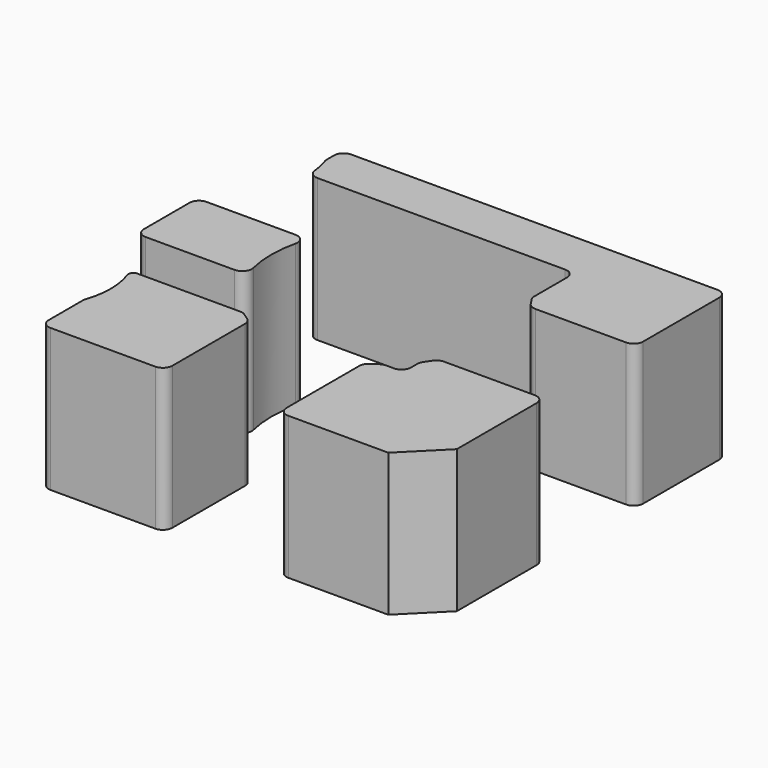
from build123d import *

# Parameters (mm, degrees)
CYLINDER069_R     = 8.5
CYLINDER069_DEPTH = 15
CYLINDER071_R     = 8.5
CYLINDER071_DEPTH = 15
CYLINDER070_R     = 12
CYLINDER070_DEPTH = 15
BOX015_W          = 12
BOX015_H          = 7
BOX015_DEPTH      = 15
BOX014_W          = 12
BOX014_H          = 3.5
BOX014_DEPTH      = 15
BOX012_W          = 15.5
BOX012_H          = 12
BOX012_DEPTH      = 15
CHAMFER012_SIZE   = 4
BOX011_W          = 13
BOX011_H          = 12
BOX011_DEPTH      = 15
BOX016_W          = 14.5
BOX016_H          = 8
BOX016_DEPTH      = 15
BOX013_W          = 40.5
BOX013_H          = 5
BOX013_DEPTH      = 15
FILLET003_R       = 0.5
FILLET004_R       = 1


with BuildPart() as cylinder069:
    # Cylinder069 → Cylinder069 (new body)
    with BuildSketch(Plane(origin=(11, -35.5, 0), x_dir=(1, 0, 0), z_dir=(0, 0, 1))):
        Circle(CYLINDER069_R)
    extrude(amount=CYLINDER069_DEPTH)


with BuildPart() as cylinder071:
    # Cylinder071 → Cylinder071 (new body)
    with BuildSketch(Plane(origin=(11, -9.5, 0), x_dir=(1, 0, 0), z_dir=(0, 0, 1))):
        Circle(CYLINDER071_R)
    extrude(amount=CYLINDER071_DEPTH)


with BuildPart() as fusion006002011004053036004001003011:
    # Cylinder070 → Cylinder070 (new body)
    with BuildSketch(Plane(origin=(38, -22.5, 0), x_dir=(1, 0, 0), z_dir=(0, 0, 1))):
        Circle(CYLINDER070_R)
    extrude(amount=CYLINDER070_DEPTH)

    # Fusion006002011004053036004001003011: union Cylinder069, Cylinder071
    add(cylinder069.part)
    add(cylinder071.part)


with BuildPart() as cube015:
    # Box015 → Box015 (new body)
    with BuildSketch(Plane(origin=(47.5, -16.5, 0), x_dir=(1, 0, 0), z_dir=(0, 0, 1))):
        with Locations((6, 3.5)):
            Rectangle(BOX015_W, BOX015_H)
    extrude(amount=BOX015_DEPTH)


with BuildPart() as cube014:
    # Box014 → Box014 (new body)
    with BuildSketch(Plane(origin=(47.5, -32, 0), x_dir=(1, 0, 0), z_dir=(0, 0, 1))):
        with Locations((6, 1.75)):
            Rectangle(BOX014_W, BOX014_H)
    extrude(amount=BOX014_DEPTH)


with BuildPart() as chamfer012:
    # Box012 → Box012 (new body)
    with BuildSketch(Plane(origin=(44, -44, 0), x_dir=(1, 0, 0), z_dir=(0, 0, 1))):
        with Locations((7.75, 6)):
            Rectangle(BOX012_W, BOX012_H)
    extrude(amount=BOX012_DEPTH)

    # Chamfer012
    chamfer012_edges = [chamfer012.edges().sort_by_distance(p)[0] for p in [
        (59.5, -44, 7.5),
    ]]
    chamfer(chamfer012_edges, length=CHAMFER012_SIZE)


with BuildPart() as cube011:
    # Box011 → Box011 (new body)
    with BuildSketch(Plane(origin=(19, -44, 0), x_dir=(1, 0, 0), z_dir=(0, 0, 1))):
        with Locations((6.5, 6)):
            Rectangle(BOX011_W, BOX011_H)
    extrude(amount=BOX011_DEPTH)


with BuildPart() as cube016:
    # Box016 → Box016 (new body)
    with BuildSketch(Plane(origin=(15, -26.5, 0), x_dir=(1, 0, 0), z_dir=(0, 0, 1))):
        with Locations((7.25, 4)):
            Rectangle(BOX016_W, BOX016_H)
    extrude(amount=BOX016_DEPTH)


with BuildPart() as wall:
    # Box013 → Box013 (new body)
    with BuildSketch(Plane(origin=(19, -9.5, 0), x_dir=(1, 0, 0), z_dir=(0, 0, 1))):
        with Locations((20.25, 2.5)):
            Rectangle(BOX013_W, BOX013_H)
    extrude(amount=BOX013_DEPTH)

    # Fusion006002011004053036004001003012: union Cube015, Cube014, Chamfer012, Cube011, Cube016
    add(cube015.part)
    add(cube014.part)
    add(chamfer012.part)
    add(cube011.part)
    add(cube016.part)

    # Cut002008008: cut Fusion006002011004053036004001003011
    add(fusion006002011004053036004001003011.part, mode=Mode.SUBTRACT)

    # Fillet003
    fillet003_edges = [wall.edges().sort_by_distance(p)[0] for p in [
        (19, -32, 7.5),
    ]]
    fillet(fillet003_edges, radius=FILLET003_R)

    # Fillet004
    fillet004_edges = [wall.edges().sort_by_distance(p)[0] for p in [
        (30.668561, -32, 7.5),
        (32, -32.892305, 7.5),
        (19, -44, 7.5),
        (32, -44, 7.5),
        (19, -4.5, 7.5),
        (19, -6.627719, 7.5),
        (59.5, -4.5, 7.5),
        (19.5, -9.5, 7.5),
        (47.5, -9.5, 7.5),
        (59.5, -16.5, 7.5),
        (47.5, -15.168561, 7.5),
        (48.392305, -16.5, 7.5),
        (47.5, -29.831439, 7.5),
        (47.5, -32, 7.5),
        (48.392305, -28.5, 7.5),
        (45.331439, -32, 7.5),
        (59.5, -28.5, 7.5),
        (44, -32.892305, 7.5),
        (44, -44, 7.5),
        (15, -26.5, 7.5),
        (15, -18.5, 7.5),
        (26.686292, -26.5, 7.5),
        (26.686292, -18.5, 7.5),
    ]]
    fillet(fillet004_edges, radius=FILLET004_R)


solid = wall.part
